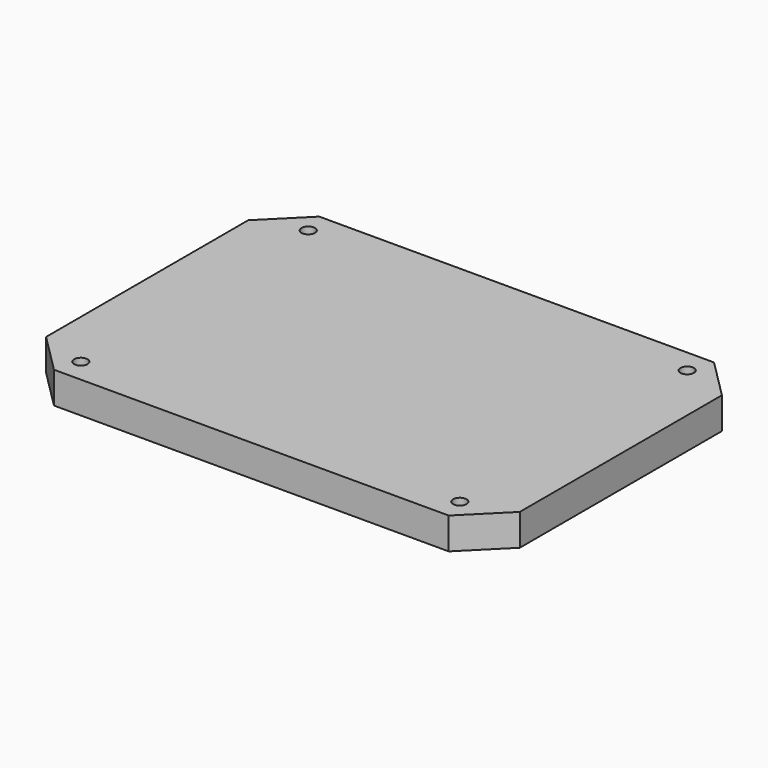
from build123d import *

# Parameters (mm, degrees)
F0_W     = 300
F0_H     = 210
F0_R     = 4.25
F1_DEPTH = 20
F2_SIZE  = 25


with BuildPart() as f1:
    # F0 (on Top) → F1 (new body)
    with BuildSketch(Plane.XY):
        Rectangle(F0_W, F0_H)
        with Locations((-120, -90)):
            Circle(F0_R, mode=Mode.SUBTRACT)
        with Locations((120, -90)):
            Circle(F0_R, mode=Mode.SUBTRACT)
        with Locations((-120, 90)):
            Circle(F0_R, mode=Mode.SUBTRACT)
        with Locations((120, 90)):
            Circle(F0_R, mode=Mode.SUBTRACT)
    extrude(amount=F1_DEPTH)

    # F2
    f2_edges = [f1.edges().sort_by_distance(p)[0] for p in [
        (-150, -105, 10),
        (-150, 105, 10),
        (150, -105, 10),
        (150, 105, 10),
    ]]
    chamfer(f2_edges, length=F2_SIZE)


solid = f1.part
